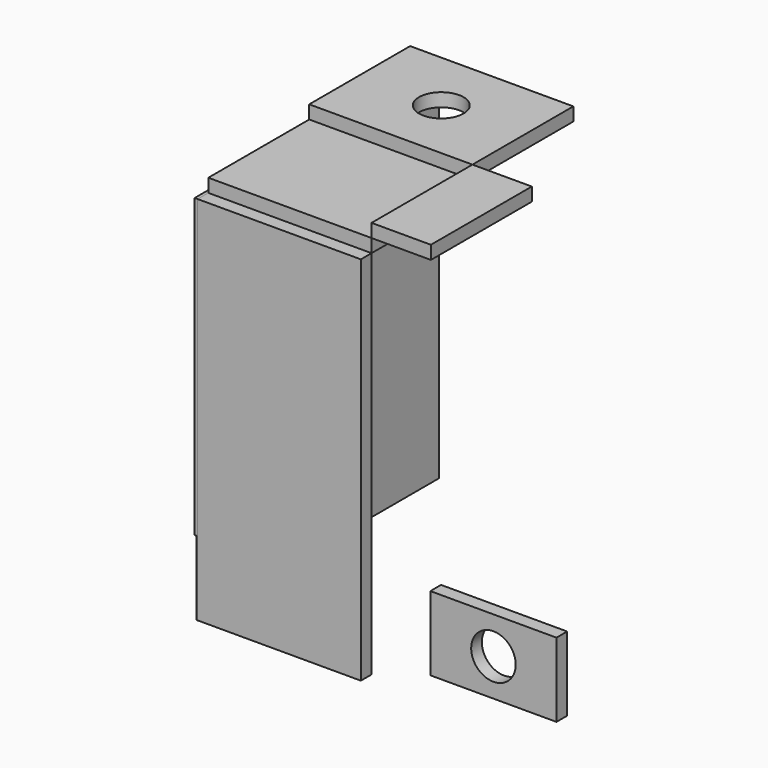
from build123d import *

# Parameters (mm, degrees)
F0_W      = 220
F0_H      = 500
F1_DEPTH  = 18
F2_W      = 220
F2_H      = 170
F3_DEPTH  = 18
F4_W      = 220
F4_H      = 170
F4_R      = 30
F5_DEPTH  = 18
F6_W      = 206
F6_H      = 400
F7_DEPTH  = 4
F8_W      = 206
F8_H      = 100
F8_R      = 2.3406
F9_DEPTH  = 1.5
F10_W     = 170
F10_H     = 100
F10_R     = 30
F11_DEPTH = 18
F12_W     = 206
F12_H     = 500
F13_DEPTH = 4
F14_W     = 80
F14_H     = 170
F15_DEPTH = 18


with BuildPart() as f1:
    # F0 (on Front) → F1 (new body)
    with BuildSketch(Plane.XZ):
        with Locations((2.475262, 69.276051)):
            Rectangle(F0_W, F0_H)
    extrude(amount=F1_DEPTH)


with BuildPart() as f3:
    # F2 (on face) → F3 (new body)
    with BuildSketch(Plane.XY.offset(319.276051)):
        with Locations((2.475262, 85)):
            Rectangle(F2_W, F2_H)
    extrude(amount=F3_DEPTH)


with BuildPart() as f5:
    # F4 (on face) → F5 (new body)
    with BuildSketch(Plane.XY.offset(337.276051)):
        with Locations((2.475262, 255)):
            Rectangle(F4_W, F4_H)
        with Locations((2.475262, 255)):
            Circle(F4_R, mode=Mode.SUBTRACT)
    extrude(amount=F5_DEPTH)


with BuildPart() as f7:
    # F6 (on face) → F7 (new body)
    with BuildSketch(Plane(origin=(-107.524738, 0, 0), x_dir=(0, -1, 0), z_dir=(-1, 0, 0))):
        with Locations((-85, 119.276051)):
            Rectangle(F6_W, F6_H)
    extrude(amount=F7_DEPTH)


with BuildPart() as f9:
    # F8 (on face) → F9 (new body)
    with BuildSketch(Plane(origin=(-107.524738, 0, 0), x_dir=(0, -1, 0), z_dir=(-1, 0, 0))):
        with Locations((-85, -130.723949)):
            Rectangle(F8_W, F8_H)
        with Locations((-180.953413, -174.304866)):
            Circle(F8_R, mode=Mode.SUBTRACT)
        with Locations((-172.953413, -174.304866)):
            Circle(F8_R, mode=Mode.SUBTRACT)
        with Locations((-164.953413, -174.304866)):
            Circle(F8_R, mode=Mode.SUBTRACT)
        with Locations((-156.953413, -174.304866)):
            Circle(F8_R, mode=Mode.SUBTRACT)
        with Locations((-148.953413, -174.304866)):
            Circle(F8_R, mode=Mode.SUBTRACT)
        with Locations((-140.953413, -174.304866)):
            Circle(F8_R, mode=Mode.SUBTRACT)
        with Locations((-180.953413, -166.304866)):
            Circle(F8_R, mode=Mode.SUBTRACT)
        with Locations((-172.953413, -166.304866)):
            Circle(F8_R, mode=Mode.SUBTRACT)
        with Locations((-164.953413, -166.304866)):
            Circle(F8_R, mode=Mode.SUBTRACT)
        with Locations((-180.953413, -158.304866)):
            Circle(F8_R, mode=Mode.SUBTRACT)
        with Locations((-172.953413, -158.304866)):
            Circle(F8_R, mode=Mode.SUBTRACT)
        with Locations((-164.953413, -158.304866)):
            Circle(F8_R, mode=Mode.SUBTRACT)
        with Locations((-156.953413, -166.304866)):
            Circle(F8_R, mode=Mode.SUBTRACT)
        with Locations((-148.953413, -166.304866)):
            Circle(F8_R, mode=Mode.SUBTRACT)
        with Locations((-140.953413, -166.304866)):
            Circle(F8_R, mode=Mode.SUBTRACT)
        with Locations((-156.953413, -158.304866)):
            Circle(F8_R, mode=Mode.SUBTRACT)
        with Locations((-148.953413, -158.304866)):
            Circle(F8_R, mode=Mode.SUBTRACT)
        with Locations((-140.953413, -158.304866)):
            Circle(F8_R, mode=Mode.SUBTRACT)
        with Locations((-132.953413, -174.304866)):
            Circle(F8_R, mode=Mode.SUBTRACT)
        with Locations((-124.953413, -174.304866)):
            Circle(F8_R, mode=Mode.SUBTRACT)
        with Locations((-116.953413, -174.304866)):
            Circle(F8_R, mode=Mode.SUBTRACT)
        with Locations((-108.953413, -174.304866)):
            Circle(F8_R, mode=Mode.SUBTRACT)
        with Locations((-100.953413, -174.304866)):
            Circle(F8_R, mode=Mode.SUBTRACT)
        with Locations((-92.953413, -174.304866)):
            Circle(F8_R, mode=Mode.SUBTRACT)
        with Locations((-132.953413, -166.304866)):
            Circle(F8_R, mode=Mode.SUBTRACT)
        with Locations((-124.953413, -166.304866)):
            Circle(F8_R, mode=Mode.SUBTRACT)
        with Locations((-116.953413, -166.304866)):
            Circle(F8_R, mode=Mode.SUBTRACT)
        with Locations((-132.953413, -158.304866)):
            Circle(F8_R, mode=Mode.SUBTRACT)
        with Locations((-124.953413, -158.304866)):
            Circle(F8_R, mode=Mode.SUBTRACT)
        with Locations((-116.953413, -158.304866)):
            Circle(F8_R, mode=Mode.SUBTRACT)
        with Locations((-108.953413, -166.304866)):
            Circle(F8_R, mode=Mode.SUBTRACT)
        with Locations((-100.953413, -166.304866)):
            Circle(F8_R, mode=Mode.SUBTRACT)
        with Locations((-92.953413, -166.304866)):
            Circle(F8_R, mode=Mode.SUBTRACT)
        with Locations((-108.953413, -158.304866)):
            Circle(F8_R, mode=Mode.SUBTRACT)
        with Locations((-100.953413, -158.304866)):
            Circle(F8_R, mode=Mode.SUBTRACT)
        with Locations((-92.953413, -158.304866)):
            Circle(F8_R, mode=Mode.SUBTRACT)
        with Locations((-180.953413, -150.304866)):
            Circle(F8_R, mode=Mode.SUBTRACT)
        with Locations((-172.953413, -150.304866)):
            Circle(F8_R, mode=Mode.SUBTRACT)
        with Locations((-164.953413, -150.304866)):
            Circle(F8_R, mode=Mode.SUBTRACT)
        with Locations((-156.953413, -150.304866)):
            Circle(F8_R, mode=Mode.SUBTRACT)
        with Locations((-148.953413, -150.304866)):
            Circle(F8_R, mode=Mode.SUBTRACT)
        with Locations((-140.953413, -150.304866)):
            Circle(F8_R, mode=Mode.SUBTRACT)
        with Locations((-180.953413, -142.304866)):
            Circle(F8_R, mode=Mode.SUBTRACT)
        with Locations((-172.953413, -142.304866)):
            Circle(F8_R, mode=Mode.SUBTRACT)
        with Locations((-164.953413, -142.304866)):
            Circle(F8_R, mode=Mode.SUBTRACT)
        with Locations((-180.953413, -134.304866)):
            Circle(F8_R, mode=Mode.SUBTRACT)
        with Locations((-172.953413, -134.304866)):
            Circle(F8_R, mode=Mode.SUBTRACT)
        with Locations((-164.953413, -134.304866)):
            Circle(F8_R, mode=Mode.SUBTRACT)
        with Locations((-156.953413, -142.304866)):
            Circle(F8_R, mode=Mode.SUBTRACT)
        with Locations((-148.953413, -142.304866)):
            Circle(F8_R, mode=Mode.SUBTRACT)
        with Locations((-140.953413, -142.304866)):
            Circle(F8_R, mode=Mode.SUBTRACT)
        with Locations((-156.953413, -134.304866)):
            Circle(F8_R, mode=Mode.SUBTRACT)
        with Locations((-148.953413, -134.304866)):
            Circle(F8_R, mode=Mode.SUBTRACT)
        with Locations((-140.953413, -134.304866)):
            Circle(F8_R, mode=Mode.SUBTRACT)
        with Locations((-132.953413, -150.304866)):
            Circle(F8_R, mode=Mode.SUBTRACT)
        with Locations((-124.953413, -150.304866)):
            Circle(F8_R, mode=Mode.SUBTRACT)
        with Locations((-116.953413, -150.304866)):
            Circle(F8_R, mode=Mode.SUBTRACT)
        with Locations((-108.953413, -150.304866)):
            Circle(F8_R, mode=Mode.SUBTRACT)
        with Locations((-100.953413, -150.304866)):
            Circle(F8_R, mode=Mode.SUBTRACT)
        with Locations((-92.953413, -150.304866)):
            Circle(F8_R, mode=Mode.SUBTRACT)
        with Locations((-132.953413, -142.304866)):
            Circle(F8_R, mode=Mode.SUBTRACT)
        with Locations((-124.953413, -142.304866)):
            Circle(F8_R, mode=Mode.SUBTRACT)
        with Locations((-116.953413, -142.304866)):
            Circle(F8_R, mode=Mode.SUBTRACT)
        with Locations((-132.953413, -134.304866)):
            Circle(F8_R, mode=Mode.SUBTRACT)
        with Locations((-124.953413, -134.304866)):
            Circle(F8_R, mode=Mode.SUBTRACT)
        with Locations((-116.953413, -134.304866)):
            Circle(F8_R, mode=Mode.SUBTRACT)
        with Locations((-108.953413, -142.304866)):
            Circle(F8_R, mode=Mode.SUBTRACT)
        with Locations((-100.953413, -142.304866)):
            Circle(F8_R, mode=Mode.SUBTRACT)
        with Locations((-92.953413, -142.304866)):
            Circle(F8_R, mode=Mode.SUBTRACT)
        with Locations((-108.953413, -134.304866)):
            Circle(F8_R, mode=Mode.SUBTRACT)
        with Locations((-100.953413, -134.304866)):
            Circle(F8_R, mode=Mode.SUBTRACT)
        with Locations((-92.953413, -134.304866)):
            Circle(F8_R, mode=Mode.SUBTRACT)
        with Locations((-84.953413, -174.304866)):
            Circle(F8_R, mode=Mode.SUBTRACT)
        with Locations((-76.953413, -174.304866)):
            Circle(F8_R, mode=Mode.SUBTRACT)
        with Locations((-68.953413, -174.304866)):
            Circle(F8_R, mode=Mode.SUBTRACT)
        with Locations((-60.953413, -174.304866)):
            Circle(F8_R, mode=Mode.SUBTRACT)
        with Locations((-52.953413, -174.304866)):
            Circle(F8_R, mode=Mode.SUBTRACT)
        with Locations((-44.953413, -174.304866)):
            Circle(F8_R, mode=Mode.SUBTRACT)
        with Locations((-36.953413, -174.304866)):
            Circle(F8_R, mode=Mode.SUBTRACT)
        with Locations((-84.953413, -166.304866)):
            Circle(F8_R, mode=Mode.SUBTRACT)
        with Locations((-76.953413, -166.304866)):
            Circle(F8_R, mode=Mode.SUBTRACT)
        with Locations((-68.953413, -166.304866)):
            Circle(F8_R, mode=Mode.SUBTRACT)
        with Locations((-60.953413, -166.304866)):
            Circle(F8_R, mode=Mode.SUBTRACT)
        with Locations((-84.953413, -158.304866)):
            Circle(F8_R, mode=Mode.SUBTRACT)
        with Locations((-76.953413, -158.304866)):
            Circle(F8_R, mode=Mode.SUBTRACT)
        with Locations((-68.953413, -158.304866)):
            Circle(F8_R, mode=Mode.SUBTRACT)
        with Locations((-60.953413, -158.304866)):
            Circle(F8_R, mode=Mode.SUBTRACT)
        with Locations((-52.953413, -166.304866)):
            Circle(F8_R, mode=Mode.SUBTRACT)
        with Locations((-44.953413, -166.304866)):
            Circle(F8_R, mode=Mode.SUBTRACT)
        with Locations((-36.953413, -166.304866)):
            Circle(F8_R, mode=Mode.SUBTRACT)
        with Locations((-52.953413, -158.304866)):
            Circle(F8_R, mode=Mode.SUBTRACT)
        with Locations((-44.953413, -158.304866)):
            Circle(F8_R, mode=Mode.SUBTRACT)
        with Locations((-36.953413, -158.304866)):
            Circle(F8_R, mode=Mode.SUBTRACT)
        with Locations((-28.953413, -174.304866)):
            Circle(F8_R, mode=Mode.SUBTRACT)
        with Locations((-20.953413, -174.304866)):
            Circle(F8_R, mode=Mode.SUBTRACT)
        with Locations((-12.953413, -174.304866)):
            Circle(F8_R, mode=Mode.SUBTRACT)
        with Locations((-4.953413, -174.304866)):
            Circle(F8_R, mode=Mode.SUBTRACT)
        with Locations((3.046587, -174.304866)):
            Circle(F8_R, mode=Mode.SUBTRACT)
        with Locations((11.046587, -174.304866)):
            Circle(F8_R, mode=Mode.SUBTRACT)
        with Locations((-28.953413, -166.304866)):
            Circle(F8_R, mode=Mode.SUBTRACT)
        with Locations((-20.953413, -166.304866)):
            Circle(F8_R, mode=Mode.SUBTRACT)
        with Locations((-12.953413, -166.304866)):
            Circle(F8_R, mode=Mode.SUBTRACT)
        with Locations((-28.953413, -158.304866)):
            Circle(F8_R, mode=Mode.SUBTRACT)
        with Locations((-20.953413, -158.304866)):
            Circle(F8_R, mode=Mode.SUBTRACT)
        with Locations((-12.953413, -158.304866)):
            Circle(F8_R, mode=Mode.SUBTRACT)
        with Locations((-4.953413, -166.304866)):
            Circle(F8_R, mode=Mode.SUBTRACT)
        with Locations((3.046587, -166.304866)):
            Circle(F8_R, mode=Mode.SUBTRACT)
        with Locations((11.046587, -166.304866)):
            Circle(F8_R, mode=Mode.SUBTRACT)
        with Locations((-4.953413, -158.304866)):
            Circle(F8_R, mode=Mode.SUBTRACT)
        with Locations((3.046587, -158.304866)):
            Circle(F8_R, mode=Mode.SUBTRACT)
        with Locations((11.046587, -158.304866)):
            Circle(F8_R, mode=Mode.SUBTRACT)
        with Locations((-84.953413, -150.304866)):
            Circle(F8_R, mode=Mode.SUBTRACT)
        with Locations((-76.953413, -150.304866)):
            Circle(F8_R, mode=Mode.SUBTRACT)
        with Locations((-68.953413, -150.304866)):
            Circle(F8_R, mode=Mode.SUBTRACT)
        with Locations((-60.953413, -150.304866)):
            Circle(F8_R, mode=Mode.SUBTRACT)
        with Locations((-52.953413, -150.304866)):
            Circle(F8_R, mode=Mode.SUBTRACT)
        with Locations((-44.953413, -150.304866)):
            Circle(F8_R, mode=Mode.SUBTRACT)
        with Locations((-36.953413, -150.304866)):
            Circle(F8_R, mode=Mode.SUBTRACT)
        with Locations((-84.953413, -142.304866)):
            Circle(F8_R, mode=Mode.SUBTRACT)
        with Locations((-76.953413, -142.304866)):
            Circle(F8_R, mode=Mode.SUBTRACT)
        with Locations((-68.953413, -142.304866)):
            Circle(F8_R, mode=Mode.SUBTRACT)
        with Locations((-60.953413, -142.304866)):
            Circle(F8_R, mode=Mode.SUBTRACT)
        with Locations((-84.953413, -134.304866)):
            Circle(F8_R, mode=Mode.SUBTRACT)
        with Locations((-76.953413, -134.304866)):
            Circle(F8_R, mode=Mode.SUBTRACT)
        with Locations((-68.953413, -134.304866)):
            Circle(F8_R, mode=Mode.SUBTRACT)
        with Locations((-60.953413, -134.304866)):
            Circle(F8_R, mode=Mode.SUBTRACT)
        with Locations((-52.953413, -142.304866)):
            Circle(F8_R, mode=Mode.SUBTRACT)
        with Locations((-44.953413, -142.304866)):
            Circle(F8_R, mode=Mode.SUBTRACT)
        with Locations((-36.953413, -142.304866)):
            Circle(F8_R, mode=Mode.SUBTRACT)
        with Locations((-52.953413, -134.304866)):
            Circle(F8_R, mode=Mode.SUBTRACT)
        with Locations((-44.953413, -134.304866)):
            Circle(F8_R, mode=Mode.SUBTRACT)
        with Locations((-36.953413, -134.304866)):
            Circle(F8_R, mode=Mode.SUBTRACT)
        with Locations((-28.953413, -150.304866)):
            Circle(F8_R, mode=Mode.SUBTRACT)
        with Locations((-20.953413, -150.304866)):
            Circle(F8_R, mode=Mode.SUBTRACT)
        with Locations((-12.953413, -150.304866)):
            Circle(F8_R, mode=Mode.SUBTRACT)
        with Locations((-4.953413, -150.304866)):
            Circle(F8_R, mode=Mode.SUBTRACT)
        with Locations((3.046587, -150.304866)):
            Circle(F8_R, mode=Mode.SUBTRACT)
        with Locations((11.046587, -150.304866)):
            Circle(F8_R, mode=Mode.SUBTRACT)
        with Locations((-28.953413, -142.304866)):
            Circle(F8_R, mode=Mode.SUBTRACT)
        with Locations((-20.953413, -142.304866)):
            Circle(F8_R, mode=Mode.SUBTRACT)
        with Locations((-12.953413, -142.304866)):
            Circle(F8_R, mode=Mode.SUBTRACT)
        with Locations((-28.953413, -134.304866)):
            Circle(F8_R, mode=Mode.SUBTRACT)
        with Locations((-20.953413, -134.304866)):
            Circle(F8_R, mode=Mode.SUBTRACT)
        with Locations((-12.953413, -134.304866)):
            Circle(F8_R, mode=Mode.SUBTRACT)
        with Locations((-4.953413, -142.304866)):
            Circle(F8_R, mode=Mode.SUBTRACT)
        with Locations((3.046587, -142.304866)):
            Circle(F8_R, mode=Mode.SUBTRACT)
        with Locations((11.046587, -142.304866)):
            Circle(F8_R, mode=Mode.SUBTRACT)
        with Locations((-4.953413, -134.304866)):
            Circle(F8_R, mode=Mode.SUBTRACT)
        with Locations((3.046587, -134.304866)):
            Circle(F8_R, mode=Mode.SUBTRACT)
        with Locations((11.046587, -134.304866)):
            Circle(F8_R, mode=Mode.SUBTRACT)
        with Locations((-180.953413, -126.304866)):
            Circle(F8_R, mode=Mode.SUBTRACT)
        with Locations((-172.953413, -126.304866)):
            Circle(F8_R, mode=Mode.SUBTRACT)
        with Locations((-164.953413, -126.304866)):
            Circle(F8_R, mode=Mode.SUBTRACT)
        with Locations((-180.953413, -118.304866)):
            Circle(F8_R, mode=Mode.SUBTRACT)
        with Locations((-172.953413, -118.304866)):
            Circle(F8_R, mode=Mode.SUBTRACT)
        with Locations((-164.953413, -118.304866)):
            Circle(F8_R, mode=Mode.SUBTRACT)
        with Locations((-156.953413, -126.304866)):
            Circle(F8_R, mode=Mode.SUBTRACT)
        with Locations((-148.953413, -126.304866)):
            Circle(F8_R, mode=Mode.SUBTRACT)
        with Locations((-140.953413, -126.304866)):
            Circle(F8_R, mode=Mode.SUBTRACT)
        with Locations((-156.953413, -118.304866)):
            Circle(F8_R, mode=Mode.SUBTRACT)
        with Locations((-148.953413, -118.304866)):
            Circle(F8_R, mode=Mode.SUBTRACT)
        with Locations((-140.953413, -118.304866)):
            Circle(F8_R, mode=Mode.SUBTRACT)
        with Locations((-180.953413, -110.304866)):
            Circle(F8_R, mode=Mode.SUBTRACT)
        with Locations((-172.953413, -110.304866)):
            Circle(F8_R, mode=Mode.SUBTRACT)
        with Locations((-164.953413, -110.304866)):
            Circle(F8_R, mode=Mode.SUBTRACT)
        with Locations((-156.953413, -110.304866)):
            Circle(F8_R, mode=Mode.SUBTRACT)
        with Locations((-148.953413, -110.304866)):
            Circle(F8_R, mode=Mode.SUBTRACT)
        with Locations((-140.953413, -110.304866)):
            Circle(F8_R, mode=Mode.SUBTRACT)
        with Locations((-132.953413, -126.304866)):
            Circle(F8_R, mode=Mode.SUBTRACT)
        with Locations((-124.953413, -126.304866)):
            Circle(F8_R, mode=Mode.SUBTRACT)
        with Locations((-116.953413, -126.304866)):
            Circle(F8_R, mode=Mode.SUBTRACT)
        with Locations((-132.953413, -118.304866)):
            Circle(F8_R, mode=Mode.SUBTRACT)
        with Locations((-124.953413, -118.304866)):
            Circle(F8_R, mode=Mode.SUBTRACT)
        with Locations((-116.953413, -118.304866)):
            Circle(F8_R, mode=Mode.SUBTRACT)
        with Locations((-108.953413, -126.304866)):
            Circle(F8_R, mode=Mode.SUBTRACT)
        with Locations((-100.953413, -126.304866)):
            Circle(F8_R, mode=Mode.SUBTRACT)
        with Locations((-92.953413, -126.304866)):
            Circle(F8_R, mode=Mode.SUBTRACT)
        with Locations((-108.953413, -118.304866)):
            Circle(F8_R, mode=Mode.SUBTRACT)
        with Locations((-100.953413, -118.304866)):
            Circle(F8_R, mode=Mode.SUBTRACT)
        with Locations((-92.953413, -118.304866)):
            Circle(F8_R, mode=Mode.SUBTRACT)
        with Locations((-132.953413, -110.304866)):
            Circle(F8_R, mode=Mode.SUBTRACT)
        with Locations((-124.953413, -110.304866)):
            Circle(F8_R, mode=Mode.SUBTRACT)
        with Locations((-116.953413, -110.304866)):
            Circle(F8_R, mode=Mode.SUBTRACT)
        with Locations((-108.953413, -110.304866)):
            Circle(F8_R, mode=Mode.SUBTRACT)
        with Locations((-100.953413, -110.304866)):
            Circle(F8_R, mode=Mode.SUBTRACT)
        with Locations((-92.953413, -110.304866)):
            Circle(F8_R, mode=Mode.SUBTRACT)
        with Locations((-180.953413, -102.304866)):
            Circle(F8_R, mode=Mode.SUBTRACT)
        with Locations((-172.953413, -102.304866)):
            Circle(F8_R, mode=Mode.SUBTRACT)
        with Locations((-164.953413, -102.304866)):
            Circle(F8_R, mode=Mode.SUBTRACT)
        with Locations((-180.953413, -94.304866)):
            Circle(F8_R, mode=Mode.SUBTRACT)
        with Locations((-172.953413, -94.304866)):
            Circle(F8_R, mode=Mode.SUBTRACT)
        with Locations((-164.953413, -94.304866)):
            Circle(F8_R, mode=Mode.SUBTRACT)
        with Locations((-156.953413, -102.304866)):
            Circle(F8_R, mode=Mode.SUBTRACT)
        with Locations((-148.953413, -102.304866)):
            Circle(F8_R, mode=Mode.SUBTRACT)
        with Locations((-140.953413, -102.304866)):
            Circle(F8_R, mode=Mode.SUBTRACT)
        with Locations((-156.953413, -94.304866)):
            Circle(F8_R, mode=Mode.SUBTRACT)
        with Locations((-148.953413, -94.304866)):
            Circle(F8_R, mode=Mode.SUBTRACT)
        with Locations((-140.953413, -94.304866)):
            Circle(F8_R, mode=Mode.SUBTRACT)
        with Locations((-180.953413, -86.304866)):
            Circle(F8_R, mode=Mode.SUBTRACT)
        with Locations((-172.953413, -86.304866)):
            Circle(F8_R, mode=Mode.SUBTRACT)
        with Locations((-164.953413, -86.304866)):
            Circle(F8_R, mode=Mode.SUBTRACT)
        with Locations((-156.953413, -86.304866)):
            Circle(F8_R, mode=Mode.SUBTRACT)
        with Locations((-148.953413, -86.304866)):
            Circle(F8_R, mode=Mode.SUBTRACT)
        with Locations((-140.953413, -86.304866)):
            Circle(F8_R, mode=Mode.SUBTRACT)
        with Locations((-132.953413, -102.304866)):
            Circle(F8_R, mode=Mode.SUBTRACT)
        with Locations((-124.953413, -102.304866)):
            Circle(F8_R, mode=Mode.SUBTRACT)
        with Locations((-116.953413, -102.304866)):
            Circle(F8_R, mode=Mode.SUBTRACT)
        with Locations((-132.953413, -94.304866)):
            Circle(F8_R, mode=Mode.SUBTRACT)
        with Locations((-124.953413, -94.304866)):
            Circle(F8_R, mode=Mode.SUBTRACT)
        with Locations((-116.953413, -94.304866)):
            Circle(F8_R, mode=Mode.SUBTRACT)
        with Locations((-108.953413, -102.304866)):
            Circle(F8_R, mode=Mode.SUBTRACT)
        with Locations((-100.953413, -102.304866)):
            Circle(F8_R, mode=Mode.SUBTRACT)
        with Locations((-92.953413, -102.304866)):
            Circle(F8_R, mode=Mode.SUBTRACT)
        with Locations((-108.953413, -94.304866)):
            Circle(F8_R, mode=Mode.SUBTRACT)
        with Locations((-100.953413, -94.304866)):
            Circle(F8_R, mode=Mode.SUBTRACT)
        with Locations((-92.953413, -94.304866)):
            Circle(F8_R, mode=Mode.SUBTRACT)
        with Locations((-132.953413, -86.304866)):
            Circle(F8_R, mode=Mode.SUBTRACT)
        with Locations((-124.953413, -86.304866)):
            Circle(F8_R, mode=Mode.SUBTRACT)
        with Locations((-116.953413, -86.304866)):
            Circle(F8_R, mode=Mode.SUBTRACT)
        with Locations((-108.953413, -86.304866)):
            Circle(F8_R, mode=Mode.SUBTRACT)
        with Locations((-100.953413, -86.304866)):
            Circle(F8_R, mode=Mode.SUBTRACT)
        with Locations((-92.953413, -86.304866)):
            Circle(F8_R, mode=Mode.SUBTRACT)
        with Locations((-84.953413, -126.304866)):
            Circle(F8_R, mode=Mode.SUBTRACT)
        with Locations((-76.953413, -126.304866)):
            Circle(F8_R, mode=Mode.SUBTRACT)
        with Locations((-68.953413, -126.304866)):
            Circle(F8_R, mode=Mode.SUBTRACT)
        with Locations((-60.953413, -126.304866)):
            Circle(F8_R, mode=Mode.SUBTRACT)
        with Locations((-84.953413, -118.304866)):
            Circle(F8_R, mode=Mode.SUBTRACT)
        with Locations((-76.953413, -118.304866)):
            Circle(F8_R, mode=Mode.SUBTRACT)
        with Locations((-68.953413, -118.304866)):
            Circle(F8_R, mode=Mode.SUBTRACT)
        with Locations((-60.953413, -118.304866)):
            Circle(F8_R, mode=Mode.SUBTRACT)
        with Locations((-52.953413, -126.304866)):
            Circle(F8_R, mode=Mode.SUBTRACT)
        with Locations((-44.953413, -126.304866)):
            Circle(F8_R, mode=Mode.SUBTRACT)
        with Locations((-36.953413, -126.304866)):
            Circle(F8_R, mode=Mode.SUBTRACT)
        with Locations((-52.953413, -118.304866)):
            Circle(F8_R, mode=Mode.SUBTRACT)
        with Locations((-44.953413, -118.304866)):
            Circle(F8_R, mode=Mode.SUBTRACT)
        with Locations((-36.953413, -118.304866)):
            Circle(F8_R, mode=Mode.SUBTRACT)
        with Locations((-84.953413, -110.304866)):
            Circle(F8_R, mode=Mode.SUBTRACT)
        with Locations((-76.953413, -110.304866)):
            Circle(F8_R, mode=Mode.SUBTRACT)
        with Locations((-68.953413, -110.304866)):
            Circle(F8_R, mode=Mode.SUBTRACT)
        with Locations((-60.953413, -110.304866)):
            Circle(F8_R, mode=Mode.SUBTRACT)
        with Locations((-52.953413, -110.304866)):
            Circle(F8_R, mode=Mode.SUBTRACT)
        with Locations((-44.953413, -110.304866)):
            Circle(F8_R, mode=Mode.SUBTRACT)
        with Locations((-36.953413, -110.304866)):
            Circle(F8_R, mode=Mode.SUBTRACT)
        with Locations((-28.953413, -126.304866)):
            Circle(F8_R, mode=Mode.SUBTRACT)
        with Locations((-20.953413, -126.304866)):
            Circle(F8_R, mode=Mode.SUBTRACT)
        with Locations((-12.953413, -126.304866)):
            Circle(F8_R, mode=Mode.SUBTRACT)
        with Locations((-28.953413, -118.304866)):
            Circle(F8_R, mode=Mode.SUBTRACT)
        with Locations((-20.953413, -118.304866)):
            Circle(F8_R, mode=Mode.SUBTRACT)
        with Locations((-12.953413, -118.304866)):
            Circle(F8_R, mode=Mode.SUBTRACT)
        with Locations((-4.953413, -126.304866)):
            Circle(F8_R, mode=Mode.SUBTRACT)
        with Locations((3.046587, -126.304866)):
            Circle(F8_R, mode=Mode.SUBTRACT)
        with Locations((11.046587, -126.304866)):
            Circle(F8_R, mode=Mode.SUBTRACT)
        with Locations((-4.953413, -118.304866)):
            Circle(F8_R, mode=Mode.SUBTRACT)
        with Locations((3.046587, -118.304866)):
            Circle(F8_R, mode=Mode.SUBTRACT)
        with Locations((11.046587, -118.304866)):
            Circle(F8_R, mode=Mode.SUBTRACT)
        with Locations((-28.953413, -110.304866)):
            Circle(F8_R, mode=Mode.SUBTRACT)
        with Locations((-20.953413, -110.304866)):
            Circle(F8_R, mode=Mode.SUBTRACT)
        with Locations((-12.953413, -110.304866)):
            Circle(F8_R, mode=Mode.SUBTRACT)
        with Locations((-4.953413, -110.304866)):
            Circle(F8_R, mode=Mode.SUBTRACT)
        with Locations((3.046587, -110.304866)):
            Circle(F8_R, mode=Mode.SUBTRACT)
        with Locations((11.046587, -110.304866)):
            Circle(F8_R, mode=Mode.SUBTRACT)
        with Locations((-84.953413, -102.304866)):
            Circle(F8_R, mode=Mode.SUBTRACT)
        with Locations((-76.953413, -102.304866)):
            Circle(F8_R, mode=Mode.SUBTRACT)
        with Locations((-68.953413, -102.304866)):
            Circle(F8_R, mode=Mode.SUBTRACT)
        with Locations((-60.953413, -102.304866)):
            Circle(F8_R, mode=Mode.SUBTRACT)
        with Locations((-84.953413, -94.304866)):
            Circle(F8_R, mode=Mode.SUBTRACT)
        with Locations((-76.953413, -94.304866)):
            Circle(F8_R, mode=Mode.SUBTRACT)
        with Locations((-68.953413, -94.304866)):
            Circle(F8_R, mode=Mode.SUBTRACT)
        with Locations((-60.953413, -94.304866)):
            Circle(F8_R, mode=Mode.SUBTRACT)
        with Locations((-52.953413, -102.304866)):
            Circle(F8_R, mode=Mode.SUBTRACT)
        with Locations((-44.953413, -102.304866)):
            Circle(F8_R, mode=Mode.SUBTRACT)
        with Locations((-36.953413, -102.304866)):
            Circle(F8_R, mode=Mode.SUBTRACT)
        with Locations((-52.953413, -94.304866)):
            Circle(F8_R, mode=Mode.SUBTRACT)
        with Locations((-44.953413, -94.304866)):
            Circle(F8_R, mode=Mode.SUBTRACT)
        with Locations((-36.953413, -94.304866)):
            Circle(F8_R, mode=Mode.SUBTRACT)
        with Locations((-84.953413, -86.304866)):
            Circle(F8_R, mode=Mode.SUBTRACT)
        with Locations((-76.953413, -86.304866)):
            Circle(F8_R, mode=Mode.SUBTRACT)
        with Locations((-68.953413, -86.304866)):
            Circle(F8_R, mode=Mode.SUBTRACT)
        with Locations((-60.953413, -86.304866)):
            Circle(F8_R, mode=Mode.SUBTRACT)
        with Locations((-52.953413, -86.304866)):
            Circle(F8_R, mode=Mode.SUBTRACT)
        with Locations((-44.953413, -86.304866)):
            Circle(F8_R, mode=Mode.SUBTRACT)
        with Locations((-36.953413, -86.304866)):
            Circle(F8_R, mode=Mode.SUBTRACT)
        with Locations((-28.953413, -102.304866)):
            Circle(F8_R, mode=Mode.SUBTRACT)
        with Locations((-20.953413, -102.304866)):
            Circle(F8_R, mode=Mode.SUBTRACT)
        with Locations((-12.953413, -102.304866)):
            Circle(F8_R, mode=Mode.SUBTRACT)
        with Locations((-28.953413, -94.304866)):
            Circle(F8_R, mode=Mode.SUBTRACT)
        with Locations((-20.953413, -94.304866)):
            Circle(F8_R, mode=Mode.SUBTRACT)
        with Locations((-12.953413, -94.304866)):
            Circle(F8_R, mode=Mode.SUBTRACT)
        with Locations((-4.953413, -102.304866)):
            Circle(F8_R, mode=Mode.SUBTRACT)
        with Locations((3.046587, -102.304866)):
            Circle(F8_R, mode=Mode.SUBTRACT)
        with Locations((11.046587, -102.304866)):
            Circle(F8_R, mode=Mode.SUBTRACT)
        with Locations((-4.953413, -94.304866)):
            Circle(F8_R, mode=Mode.SUBTRACT)
        with Locations((3.046587, -94.304866)):
            Circle(F8_R, mode=Mode.SUBTRACT)
        with Locations((11.046587, -94.304866)):
            Circle(F8_R, mode=Mode.SUBTRACT)
        with Locations((-28.953413, -86.304866)):
            Circle(F8_R, mode=Mode.SUBTRACT)
        with Locations((-20.953413, -86.304866)):
            Circle(F8_R, mode=Mode.SUBTRACT)
        with Locations((-12.953413, -86.304866)):
            Circle(F8_R, mode=Mode.SUBTRACT)
        with Locations((-4.953413, -86.304866)):
            Circle(F8_R, mode=Mode.SUBTRACT)
        with Locations((3.046587, -86.304866)):
            Circle(F8_R, mode=Mode.SUBTRACT)
        with Locations((11.046587, -86.304866)):
            Circle(F8_R, mode=Mode.SUBTRACT)
    extrude(amount=F9_DEPTH)


with BuildPart() as f11:
    # F10 (on face) → F11 (new body)
    with BuildSketch(Plane(origin=(0, 0, 0), x_dir=(-1, 0, 0), z_dir=(0, 1, 0))):
        with Locations((-276.774764, -105.884431)):
            Rectangle(F10_W, F10_H)
        with Locations((-276.774764, -105.884431)):
            Circle(F10_R, mode=Mode.SUBTRACT)
    extrude(amount=F11_DEPTH)


with BuildPart() as f13:
    # F12 (on face) → F13 (new body)
    with BuildSketch(Plane(origin=(-111.524738, 0, 0), x_dir=(0, -1, 0), z_dir=(-1, 0, 0))):
        with Locations((-291, 69.276051)):
            Rectangle(F12_W, F12_H)
    extrude(amount=F13_DEPTH)


with BuildPart() as f15:
    # F14 (on face) → F15 (new body)
    with BuildSketch(Plane.XY.offset(337.276051)):
        with Locations((152.475262, 85)):
            Rectangle(F14_W, F14_H)
    extrude(amount=F15_DEPTH)


solid = Compound([f1.part, f3.part, f5.part, f7.part, f9.part, f11.part, f13.part, f15.part])
